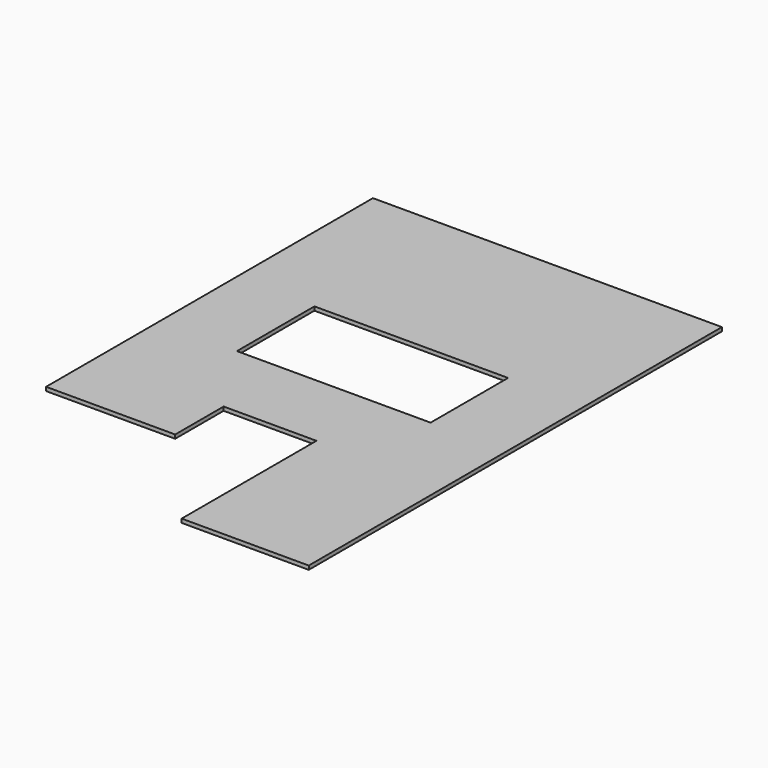
from build123d import *

# Parameters (mm, degrees)
SKETCH_W      = 304.8
SKETCH_H      = 152.4
EXTRUDE_DEPTH = 5.9944


with BuildPart() as part:
    # Sketch → Extrude (new body)
    with BuildSketch(Plane.XY):
        Polygon((0, 0), (549.275, 0), (549.275, -812.8), (349.25, -812.8), (349.25, -547.6748), (203.2, -547.6748), (203.2, -642.9502), (0, -642.9502), align=None)
        with Locations((276.225, -346.075)):
            Rectangle(SKETCH_W, SKETCH_H, mode=Mode.SUBTRACT)
    extrude(amount=EXTRUDE_DEPTH)


solid = part.part
